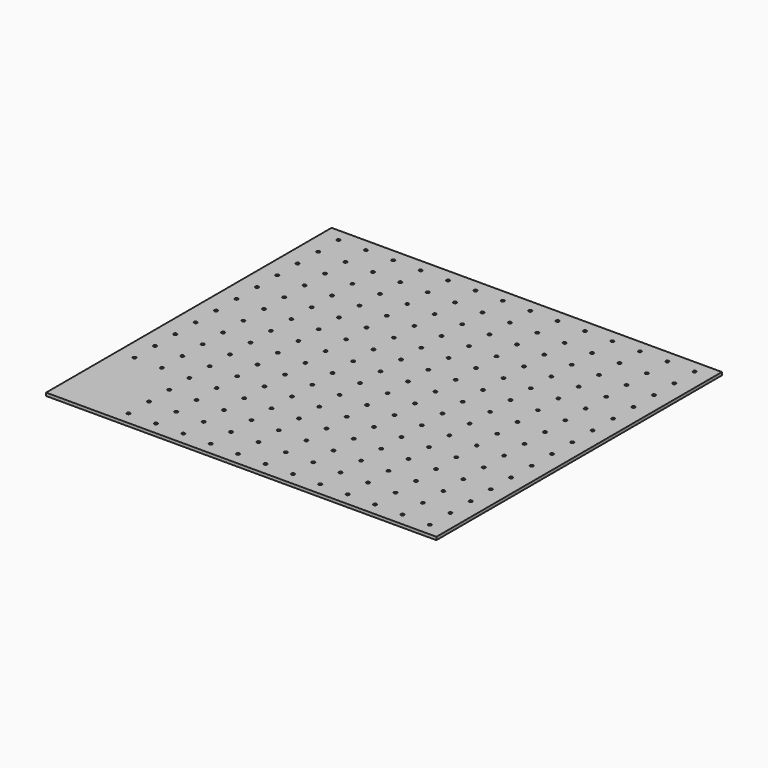
from build123d import *

# Parameters (mm, degrees)
SKETCH_W      = 777.875
SKETCH_H      = 711.2
SKETCH_R      = 3.175
EXTRUDE_DEPTH = 5.9944


with BuildPart() as part:
    # Sketch → Extrude (new body)
    with BuildSketch(Plane.XY):
        with Locations((-51.628978, 122.333477)):
            Rectangle(SKETCH_W, SKETCH_H)
        with Locations((-406.581278, 452.533477)):
            Circle(SKETCH_R, mode=Mode.SUBTRACT)
        with Locations((-351.971278, 452.533477)):
            Circle(SKETCH_R, mode=Mode.SUBTRACT)
        with Locations((-297.361278, 452.533477)):
            Circle(SKETCH_R, mode=Mode.SUBTRACT)
        with Locations((-242.751278, 452.533477)):
            Circle(SKETCH_R, mode=Mode.SUBTRACT)
        with Locations((-188.141278, 452.533477)):
            Circle(SKETCH_R, mode=Mode.SUBTRACT)
        with Locations((-133.531278, 452.533477)):
            Circle(SKETCH_R, mode=Mode.SUBTRACT)
        with Locations((-78.921278, 452.533477)):
            Circle(SKETCH_R, mode=Mode.SUBTRACT)
        with Locations((-24.311278, 452.533477)):
            Circle(SKETCH_R, mode=Mode.SUBTRACT)
        with Locations((30.298722, 452.533477)):
            Circle(SKETCH_R, mode=Mode.SUBTRACT)
        with Locations((84.908722, 452.533477)):
            Circle(SKETCH_R, mode=Mode.SUBTRACT)
        with Locations((139.518722, 452.533477)):
            Circle(SKETCH_R, mode=Mode.SUBTRACT)
        with Locations((194.128722, 452.533477)):
            Circle(SKETCH_R, mode=Mode.SUBTRACT)
        with Locations((248.738722, 452.533477)):
            Circle(SKETCH_R, mode=Mode.SUBTRACT)
        with Locations((303.348722, 452.533477)):
            Circle(SKETCH_R, mode=Mode.SUBTRACT)
        with Locations((-406.581278, 401.733477)):
            Circle(SKETCH_R, mode=Mode.SUBTRACT)
        with Locations((-351.971278, 401.733477)):
            Circle(SKETCH_R, mode=Mode.SUBTRACT)
        with Locations((-297.361278, 401.733477)):
            Circle(SKETCH_R, mode=Mode.SUBTRACT)
        with Locations((-242.751278, 401.733477)):
            Circle(SKETCH_R, mode=Mode.SUBTRACT)
        with Locations((-188.141278, 401.733477)):
            Circle(SKETCH_R, mode=Mode.SUBTRACT)
        with Locations((-133.531278, 401.733477)):
            Circle(SKETCH_R, mode=Mode.SUBTRACT)
        with Locations((-78.921278, 401.733477)):
            Circle(SKETCH_R, mode=Mode.SUBTRACT)
        with Locations((-24.311278, 401.733477)):
            Circle(SKETCH_R, mode=Mode.SUBTRACT)
        with Locations((30.298722, 401.733477)):
            Circle(SKETCH_R, mode=Mode.SUBTRACT)
        with Locations((84.908722, 401.733477)):
            Circle(SKETCH_R, mode=Mode.SUBTRACT)
        with Locations((139.518722, 401.733477)):
            Circle(SKETCH_R, mode=Mode.SUBTRACT)
        with Locations((194.128722, 401.733477)):
            Circle(SKETCH_R, mode=Mode.SUBTRACT)
        with Locations((248.738722, 401.733477)):
            Circle(SKETCH_R, mode=Mode.SUBTRACT)
        with Locations((303.348722, 401.733477)):
            Circle(SKETCH_R, mode=Mode.SUBTRACT)
        with Locations((-406.581278, 350.933477)):
            Circle(SKETCH_R, mode=Mode.SUBTRACT)
        with Locations((-351.971278, 350.933477)):
            Circle(SKETCH_R, mode=Mode.SUBTRACT)
        with Locations((-297.361278, 350.933477)):
            Circle(SKETCH_R, mode=Mode.SUBTRACT)
        with Locations((-242.751278, 350.933477)):
            Circle(SKETCH_R, mode=Mode.SUBTRACT)
        with Locations((-188.141278, 350.933477)):
            Circle(SKETCH_R, mode=Mode.SUBTRACT)
        with Locations((-133.531278, 350.933477)):
            Circle(SKETCH_R, mode=Mode.SUBTRACT)
        with Locations((-78.921278, 350.933477)):
            Circle(SKETCH_R, mode=Mode.SUBTRACT)
        with Locations((-24.311278, 350.933477)):
            Circle(SKETCH_R, mode=Mode.SUBTRACT)
        with Locations((30.298722, 350.933477)):
            Circle(SKETCH_R, mode=Mode.SUBTRACT)
        with Locations((84.908722, 350.933477)):
            Circle(SKETCH_R, mode=Mode.SUBTRACT)
        with Locations((139.518722, 350.933477)):
            Circle(SKETCH_R, mode=Mode.SUBTRACT)
        with Locations((194.128722, 350.933477)):
            Circle(SKETCH_R, mode=Mode.SUBTRACT)
        with Locations((248.738722, 350.933477)):
            Circle(SKETCH_R, mode=Mode.SUBTRACT)
        with Locations((303.348722, 350.933477)):
            Circle(SKETCH_R, mode=Mode.SUBTRACT)
        with Locations((-406.581278, 300.133477)):
            Circle(SKETCH_R, mode=Mode.SUBTRACT)
        with Locations((-351.971278, 300.133477)):
            Circle(SKETCH_R, mode=Mode.SUBTRACT)
        with Locations((-297.361278, 300.133477)):
            Circle(SKETCH_R, mode=Mode.SUBTRACT)
        with Locations((-242.751278, 300.133477)):
            Circle(SKETCH_R, mode=Mode.SUBTRACT)
        with Locations((-188.141278, 300.133477)):
            Circle(SKETCH_R, mode=Mode.SUBTRACT)
        with Locations((-133.531278, 300.133477)):
            Circle(SKETCH_R, mode=Mode.SUBTRACT)
        with Locations((-78.921278, 300.133477)):
            Circle(SKETCH_R, mode=Mode.SUBTRACT)
        with Locations((-24.311278, 300.133477)):
            Circle(SKETCH_R, mode=Mode.SUBTRACT)
        with Locations((30.298722, 300.133477)):
            Circle(SKETCH_R, mode=Mode.SUBTRACT)
        with Locations((84.908722, 300.133477)):
            Circle(SKETCH_R, mode=Mode.SUBTRACT)
        with Locations((139.518722, 300.133477)):
            Circle(SKETCH_R, mode=Mode.SUBTRACT)
        with Locations((194.128722, 300.133477)):
            Circle(SKETCH_R, mode=Mode.SUBTRACT)
        with Locations((248.738722, 300.133477)):
            Circle(SKETCH_R, mode=Mode.SUBTRACT)
        with Locations((303.348722, 300.133477)):
            Circle(SKETCH_R, mode=Mode.SUBTRACT)
        with Locations((-406.581278, 249.333477)):
            Circle(SKETCH_R, mode=Mode.SUBTRACT)
        with Locations((-351.971278, 249.333477)):
            Circle(SKETCH_R, mode=Mode.SUBTRACT)
        with Locations((-297.361278, 249.333477)):
            Circle(SKETCH_R, mode=Mode.SUBTRACT)
        with Locations((-242.751278, 249.333477)):
            Circle(SKETCH_R, mode=Mode.SUBTRACT)
        with Locations((-188.141278, 249.333477)):
            Circle(SKETCH_R, mode=Mode.SUBTRACT)
        with Locations((-133.531278, 249.333477)):
            Circle(SKETCH_R, mode=Mode.SUBTRACT)
        with Locations((-78.921278, 249.333477)):
            Circle(SKETCH_R, mode=Mode.SUBTRACT)
        with Locations((-24.311278, 249.333477)):
            Circle(SKETCH_R, mode=Mode.SUBTRACT)
        with Locations((30.298722, 249.333477)):
            Circle(SKETCH_R, mode=Mode.SUBTRACT)
        with Locations((84.908722, 249.333477)):
            Circle(SKETCH_R, mode=Mode.SUBTRACT)
        with Locations((139.518722, 249.333477)):
            Circle(SKETCH_R, mode=Mode.SUBTRACT)
        with Locations((194.128722, 249.333477)):
            Circle(SKETCH_R, mode=Mode.SUBTRACT)
        with Locations((248.738722, 249.333477)):
            Circle(SKETCH_R, mode=Mode.SUBTRACT)
        with Locations((303.348722, 249.333477)):
            Circle(SKETCH_R, mode=Mode.SUBTRACT)
        with Locations((-406.581278, 198.533477)):
            Circle(SKETCH_R, mode=Mode.SUBTRACT)
        with Locations((-351.971278, 198.533477)):
            Circle(SKETCH_R, mode=Mode.SUBTRACT)
        with Locations((-297.361278, 198.533477)):
            Circle(SKETCH_R, mode=Mode.SUBTRACT)
        with Locations((-242.751278, 198.533477)):
            Circle(SKETCH_R, mode=Mode.SUBTRACT)
        with Locations((-188.141278, 198.533477)):
            Circle(SKETCH_R, mode=Mode.SUBTRACT)
        with Locations((-133.531278, 198.533477)):
            Circle(SKETCH_R, mode=Mode.SUBTRACT)
        with Locations((-78.921278, 198.533477)):
            Circle(SKETCH_R, mode=Mode.SUBTRACT)
        with Locations((-24.311278, 198.533477)):
            Circle(SKETCH_R, mode=Mode.SUBTRACT)
        with Locations((30.298722, 198.533477)):
            Circle(SKETCH_R, mode=Mode.SUBTRACT)
        with Locations((84.908722, 198.533477)):
            Circle(SKETCH_R, mode=Mode.SUBTRACT)
        with Locations((139.518722, 198.533477)):
            Circle(SKETCH_R, mode=Mode.SUBTRACT)
        with Locations((194.128722, 198.533477)):
            Circle(SKETCH_R, mode=Mode.SUBTRACT)
        with Locations((248.738722, 198.533477)):
            Circle(SKETCH_R, mode=Mode.SUBTRACT)
        with Locations((303.348722, 198.533477)):
            Circle(SKETCH_R, mode=Mode.SUBTRACT)
        with Locations((-406.581278, 147.733477)):
            Circle(SKETCH_R, mode=Mode.SUBTRACT)
        with Locations((-351.971278, 147.733477)):
            Circle(SKETCH_R, mode=Mode.SUBTRACT)
        with Locations((-297.361278, 147.733477)):
            Circle(SKETCH_R, mode=Mode.SUBTRACT)
        with Locations((-242.751278, 147.733477)):
            Circle(SKETCH_R, mode=Mode.SUBTRACT)
        with Locations((-188.141278, 147.733477)):
            Circle(SKETCH_R, mode=Mode.SUBTRACT)
        with Locations((-133.531278, 147.733477)):
            Circle(SKETCH_R, mode=Mode.SUBTRACT)
        with Locations((-78.921278, 147.733477)):
            Circle(SKETCH_R, mode=Mode.SUBTRACT)
        with Locations((-24.311278, 147.733477)):
            Circle(SKETCH_R, mode=Mode.SUBTRACT)
        with Locations((30.298722, 147.733477)):
            Circle(SKETCH_R, mode=Mode.SUBTRACT)
        with Locations((84.908722, 147.733477)):
            Circle(SKETCH_R, mode=Mode.SUBTRACT)
        with Locations((139.518722, 147.733477)):
            Circle(SKETCH_R, mode=Mode.SUBTRACT)
        with Locations((194.128722, 147.733477)):
            Circle(SKETCH_R, mode=Mode.SUBTRACT)
        with Locations((248.738722, 147.733477)):
            Circle(SKETCH_R, mode=Mode.SUBTRACT)
        with Locations((303.348722, 147.733477)):
            Circle(SKETCH_R, mode=Mode.SUBTRACT)
        with Locations((-406.581278, 96.933477)):
            Circle(SKETCH_R, mode=Mode.SUBTRACT)
        with Locations((-351.971278, 96.933477)):
            Circle(SKETCH_R, mode=Mode.SUBTRACT)
        with Locations((-297.361278, 96.933477)):
            Circle(SKETCH_R, mode=Mode.SUBTRACT)
        with Locations((-242.751278, 96.933477)):
            Circle(SKETCH_R, mode=Mode.SUBTRACT)
        with Locations((-188.141278, 96.933477)):
            Circle(SKETCH_R, mode=Mode.SUBTRACT)
        with Locations((-133.531278, 96.933477)):
            Circle(SKETCH_R, mode=Mode.SUBTRACT)
        with Locations((-78.921278, 96.933477)):
            Circle(SKETCH_R, mode=Mode.SUBTRACT)
        with Locations((-24.311278, 96.933477)):
            Circle(SKETCH_R, mode=Mode.SUBTRACT)
        with Locations((30.298722, 96.933477)):
            Circle(SKETCH_R, mode=Mode.SUBTRACT)
        with Locations((84.908722, 96.933477)):
            Circle(SKETCH_R, mode=Mode.SUBTRACT)
        with Locations((139.518722, 96.933477)):
            Circle(SKETCH_R, mode=Mode.SUBTRACT)
        with Locations((194.128722, 96.933477)):
            Circle(SKETCH_R, mode=Mode.SUBTRACT)
        with Locations((248.738722, 96.933477)):
            Circle(SKETCH_R, mode=Mode.SUBTRACT)
        with Locations((303.348722, 96.933477)):
            Circle(SKETCH_R, mode=Mode.SUBTRACT)
        with Locations((-406.581278, 46.133477)):
            Circle(SKETCH_R, mode=Mode.SUBTRACT)
        with Locations((-351.971278, 46.133477)):
            Circle(SKETCH_R, mode=Mode.SUBTRACT)
        with Locations((-297.361278, 46.133477)):
            Circle(SKETCH_R, mode=Mode.SUBTRACT)
        with Locations((-242.751278, 46.133477)):
            Circle(SKETCH_R, mode=Mode.SUBTRACT)
        with Locations((-188.141278, 46.133477)):
            Circle(SKETCH_R, mode=Mode.SUBTRACT)
        with Locations((-133.531278, 46.133477)):
            Circle(SKETCH_R, mode=Mode.SUBTRACT)
        with Locations((-78.921278, 46.133477)):
            Circle(SKETCH_R, mode=Mode.SUBTRACT)
        with Locations((-24.311278, 46.133477)):
            Circle(SKETCH_R, mode=Mode.SUBTRACT)
        with Locations((30.298722, 46.133477)):
            Circle(SKETCH_R, mode=Mode.SUBTRACT)
        with Locations((84.908722, 46.133477)):
            Circle(SKETCH_R, mode=Mode.SUBTRACT)
        with Locations((139.518722, 46.133477)):
            Circle(SKETCH_R, mode=Mode.SUBTRACT)
        with Locations((194.128722, 46.133477)):
            Circle(SKETCH_R, mode=Mode.SUBTRACT)
        with Locations((248.738722, 46.133477)):
            Circle(SKETCH_R, mode=Mode.SUBTRACT)
        with Locations((303.348722, 46.133477)):
            Circle(SKETCH_R, mode=Mode.SUBTRACT)
        with Locations((-406.581278, -4.666523)):
            Circle(SKETCH_R, mode=Mode.SUBTRACT)
        with Locations((-351.971278, -4.666523)):
            Circle(SKETCH_R, mode=Mode.SUBTRACT)
        with Locations((-297.361278, -4.666523)):
            Circle(SKETCH_R, mode=Mode.SUBTRACT)
        with Locations((-242.751278, -4.666523)):
            Circle(SKETCH_R, mode=Mode.SUBTRACT)
        with Locations((-188.141278, -4.666523)):
            Circle(SKETCH_R, mode=Mode.SUBTRACT)
        with Locations((-133.531278, -4.666523)):
            Circle(SKETCH_R, mode=Mode.SUBTRACT)
        with Locations((-78.921278, -4.666523)):
            Circle(SKETCH_R, mode=Mode.SUBTRACT)
        with Locations((-24.311278, -4.666523)):
            Circle(SKETCH_R, mode=Mode.SUBTRACT)
        with Locations((30.298722, -4.666523)):
            Circle(SKETCH_R, mode=Mode.SUBTRACT)
        with Locations((84.908722, -4.666523)):
            Circle(SKETCH_R, mode=Mode.SUBTRACT)
        with Locations((139.518722, -4.666523)):
            Circle(SKETCH_R, mode=Mode.SUBTRACT)
        with Locations((194.128722, -4.666523)):
            Circle(SKETCH_R, mode=Mode.SUBTRACT)
        with Locations((248.738722, -4.666523)):
            Circle(SKETCH_R, mode=Mode.SUBTRACT)
        with Locations((303.348722, -4.666523)):
            Circle(SKETCH_R, mode=Mode.SUBTRACT)
        with Locations((-406.581278, -55.466523)):
            Circle(SKETCH_R, mode=Mode.SUBTRACT)
        with Locations((-351.971278, -55.466523)):
            Circle(SKETCH_R, mode=Mode.SUBTRACT)
        with Locations((-297.361278, -55.466523)):
            Circle(SKETCH_R, mode=Mode.SUBTRACT)
        with Locations((-242.751278, -55.466523)):
            Circle(SKETCH_R, mode=Mode.SUBTRACT)
        with Locations((-188.141278, -55.466523)):
            Circle(SKETCH_R, mode=Mode.SUBTRACT)
        with Locations((-133.531278, -55.466523)):
            Circle(SKETCH_R, mode=Mode.SUBTRACT)
        with Locations((-78.921278, -55.466523)):
            Circle(SKETCH_R, mode=Mode.SUBTRACT)
        with Locations((-24.311278, -55.466523)):
            Circle(SKETCH_R, mode=Mode.SUBTRACT)
        with Locations((30.298722, -55.466523)):
            Circle(SKETCH_R, mode=Mode.SUBTRACT)
        with Locations((84.908722, -55.466523)):
            Circle(SKETCH_R, mode=Mode.SUBTRACT)
        with Locations((139.518722, -55.466523)):
            Circle(SKETCH_R, mode=Mode.SUBTRACT)
        with Locations((194.128722, -55.466523)):
            Circle(SKETCH_R, mode=Mode.SUBTRACT)
        with Locations((248.738722, -55.466523)):
            Circle(SKETCH_R, mode=Mode.SUBTRACT)
        with Locations((303.348722, -55.466523)):
            Circle(SKETCH_R, mode=Mode.SUBTRACT)
        with Locations((-296.740732, -106.232344)):
            Circle(SKETCH_R, mode=Mode.SUBTRACT)
        with Locations((-242.130732, -106.232344)):
            Circle(SKETCH_R, mode=Mode.SUBTRACT)
        with Locations((-187.520732, -106.232344)):
            Circle(SKETCH_R, mode=Mode.SUBTRACT)
        with Locations((-132.910732, -106.232344)):
            Circle(SKETCH_R, mode=Mode.SUBTRACT)
        with Locations((-78.300732, -106.232344)):
            Circle(SKETCH_R, mode=Mode.SUBTRACT)
        with Locations((-23.690732, -106.232344)):
            Circle(SKETCH_R, mode=Mode.SUBTRACT)
        with Locations((30.919268, -106.232344)):
            Circle(SKETCH_R, mode=Mode.SUBTRACT)
        with Locations((85.529268, -106.232344)):
            Circle(SKETCH_R, mode=Mode.SUBTRACT)
        with Locations((140.139268, -106.232344)):
            Circle(SKETCH_R, mode=Mode.SUBTRACT)
        with Locations((194.749268, -106.232344)):
            Circle(SKETCH_R, mode=Mode.SUBTRACT)
        with Locations((249.359268, -106.232344)):
            Circle(SKETCH_R, mode=Mode.SUBTRACT)
        with Locations((303.969268, -106.232344)):
            Circle(SKETCH_R, mode=Mode.SUBTRACT)
        with Locations((-296.740371, -157.032169)):
            Circle(SKETCH_R, mode=Mode.SUBTRACT)
        with Locations((-242.130371, -157.032169)):
            Circle(SKETCH_R, mode=Mode.SUBTRACT)
        with Locations((-187.520371, -157.032169)):
            Circle(SKETCH_R, mode=Mode.SUBTRACT)
        with Locations((-132.910371, -157.032169)):
            Circle(SKETCH_R, mode=Mode.SUBTRACT)
        with Locations((-78.300371, -157.032169)):
            Circle(SKETCH_R, mode=Mode.SUBTRACT)
        with Locations((-23.690371, -157.032169)):
            Circle(SKETCH_R, mode=Mode.SUBTRACT)
        with Locations((30.919629, -157.032169)):
            Circle(SKETCH_R, mode=Mode.SUBTRACT)
        with Locations((85.529629, -157.032169)):
            Circle(SKETCH_R, mode=Mode.SUBTRACT)
        with Locations((140.139629, -157.032169)):
            Circle(SKETCH_R, mode=Mode.SUBTRACT)
        with Locations((194.749629, -157.032169)):
            Circle(SKETCH_R, mode=Mode.SUBTRACT)
        with Locations((249.359629, -157.032169)):
            Circle(SKETCH_R, mode=Mode.SUBTRACT)
        with Locations((303.969629, -157.032169)):
            Circle(SKETCH_R, mode=Mode.SUBTRACT)
        with Locations((-296.740371, -207.832344)):
            Circle(SKETCH_R, mode=Mode.SUBTRACT)
        with Locations((-242.130371, -207.832344)):
            Circle(SKETCH_R, mode=Mode.SUBTRACT)
        with Locations((-187.520371, -207.832344)):
            Circle(SKETCH_R, mode=Mode.SUBTRACT)
        with Locations((-132.910371, -207.832344)):
            Circle(SKETCH_R, mode=Mode.SUBTRACT)
        with Locations((-78.300371, -207.832344)):
            Circle(SKETCH_R, mode=Mode.SUBTRACT)
        with Locations((-23.690371, -207.832344)):
            Circle(SKETCH_R, mode=Mode.SUBTRACT)
        with Locations((30.919629, -207.832344)):
            Circle(SKETCH_R, mode=Mode.SUBTRACT)
        with Locations((85.529629, -207.832344)):
            Circle(SKETCH_R, mode=Mode.SUBTRACT)
        with Locations((140.139629, -207.832344)):
            Circle(SKETCH_R, mode=Mode.SUBTRACT)
        with Locations((194.749629, -207.832344)):
            Circle(SKETCH_R, mode=Mode.SUBTRACT)
        with Locations((249.359629, -207.832344)):
            Circle(SKETCH_R, mode=Mode.SUBTRACT)
        with Locations((303.969629, -207.832344)):
            Circle(SKETCH_R, mode=Mode.SUBTRACT)
    extrude(amount=EXTRUDE_DEPTH)


solid = part.part
